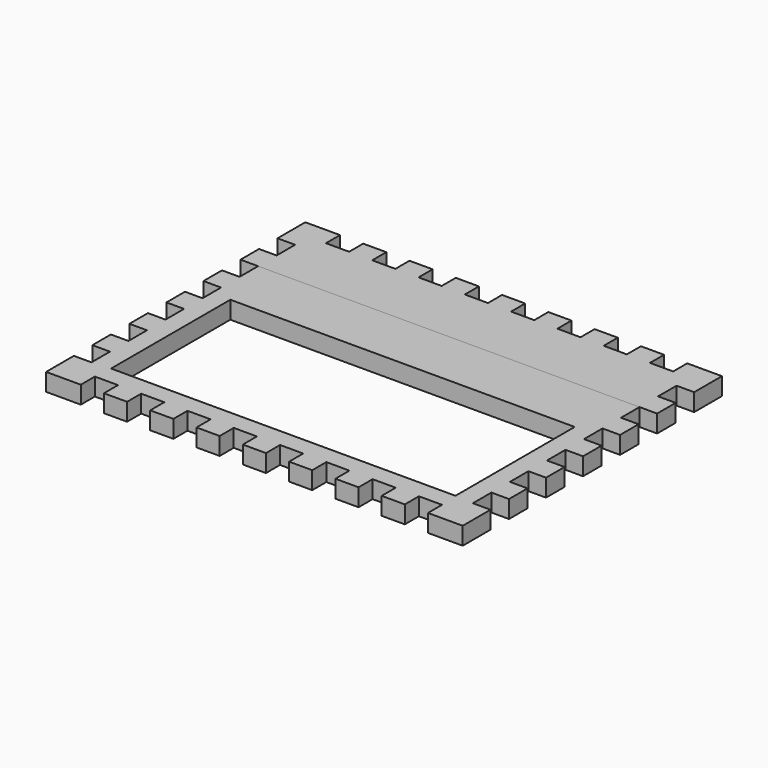
from build123d import *

# Parameters (mm, degrees)
F1_DEPTH = 9.652
F0_W     = 188.976
F0_H     = 81.788
F2_DEPTH = 9.652


with BuildPart() as f1:
    # F0 (on Top) → F1 (new body)
    with BuildSketch(Plane.XY):
        Polygon((19.05, 0), (0, 0), (0, -19.05), (9.652, -19.05), (9.652, -31.75), (0, -31.75), (0, -44.45), (9.652, -44.45), (218.948, -44.45), (228.6, -44.45), (228.6, -31.75), (218.948, -31.75), (218.948, -19.05), (228.6, -19.05), (228.6, 0), (209.55, 0), (209.55, -9.652), (196.85, -9.652), (196.85, 0), (184.15, 0), (184.15, -9.652), (171.45, -9.652), (171.45, 0), (158.75, 0), (158.75, -9.652), (146.05, -9.652), (146.05, 0), (133.35, 0), (133.35, -9.652), (120.65, -9.652), (120.65, 0), (107.95, 0), (107.95, -9.652), (95.25, -9.652), (95.25, 0), (82.55, 0), (82.55, -9.652), (69.85, -9.652), (69.85, 0), (57.15, 0), (57.15, -9.652), (44.45, -9.652), (44.45, 0), (31.75, 0), (31.75, -9.652), (19.05, -9.652), align=None)
    extrude(amount=F1_DEPTH)


with BuildPart() as f2:
    # F0 (on Top) → F2 (new body)
    with BuildSketch(Plane.XY):
        Polygon((218.948, -44.45), (9.652, -44.45), (9.652, -57.15), (0, -57.15), (0, -69.85), (9.652, -69.85), (9.652, -82.55), (0, -82.55), (0, -95.25), (9.652, -95.25), (9.652, -107.95), (0, -107.95), (0, -120.65), (9.652, -120.65), (9.652, -133.35), (0, -133.35), (0, -146.05), (9.652, -146.05), (9.652, -158.75), (0, -158.75), (0, -177.8), (19.05, -177.8), (19.05, -168.148), (31.75, -168.148), (31.75, -177.8), (44.45, -177.8), (44.45, -168.148), (57.15, -168.148), (57.15, -177.8), (69.85, -177.8), (69.85, -168.148), (82.55, -168.148), (82.55, -177.8), (95.25, -177.8), (95.25, -168.148), (107.95, -168.148), (107.95, -177.8), (120.65, -177.8), (120.65, -168.148), (133.35, -168.148), (133.35, -177.8), (146.05, -177.8), (146.05, -168.148), (158.75, -168.148), (158.75, -177.8), (171.45, -177.8), (171.45, -168.148), (184.15, -168.148), (184.15, -177.8), (196.85, -177.8), (196.85, -168.148), (209.55, -168.148), (209.55, -177.8), (228.6, -177.8), (228.6, -158.75), (218.948, -158.75), (218.948, -146.05), (228.6, -146.05), (228.6, -133.35), (218.948, -133.35), (218.948, -120.65), (228.6, -120.65), (228.6, -107.95), (218.948, -107.95), (218.948, -95.25), (228.6, -95.25), (228.6, -82.55), (218.948, -82.55), (218.948, -69.85), (228.6, -69.85), (228.6, -57.15), (218.948, -57.15), align=None)
        with Locations((114.3, -117.094)):
            Rectangle(F0_W, F0_H, mode=Mode.SUBTRACT)
    extrude(amount=F2_DEPTH)


solid = Compound([f1.part, f2.part])
